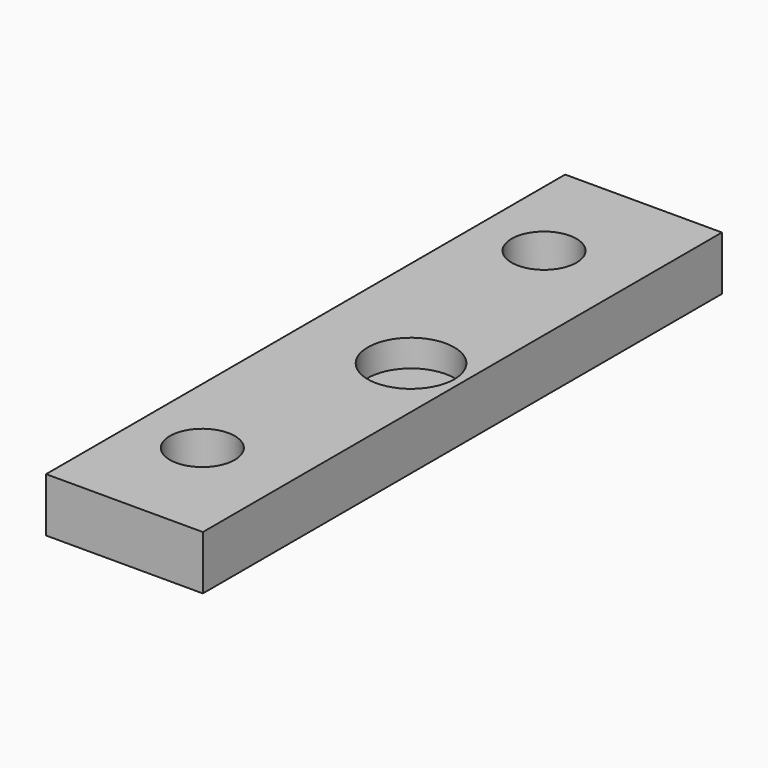
from build123d import *

# Parameters (mm, degrees)
BOX_W           = 29
BOX_H           = 120
BOX_DEPTH       = 10
SKETCH_R        = 6
POCKET_DEPTH    = 10.001
SKETCH001_R     = 8
POCKET001_DEPTH = 5


with BuildPart() as part:
    # Box → Box (new body)
    with BuildSketch(Plane.XY):
        with Locations((14.5, 60)):
            Rectangle(BOX_W, BOX_H)
    extrude(amount=BOX_DEPTH)

    # Sketch → Pocket (cut, through all)
    with BuildSketch(Plane.XY.offset(10)):
        with Locations((12.5, 99.5)):
            Circle(SKETCH_R)
        with Locations((12.5, 20.5)):
            Circle(SKETCH_R)
    extrude(amount=-POCKET_DEPTH, mode=Mode.SUBTRACT)

    # Sketch001 → Pocket001 (cut)
    with BuildSketch(Plane.XY.offset(10)):
        with Locations((19.5, 60)):
            Circle(SKETCH001_R)
    extrude(amount=-POCKET001_DEPTH, mode=Mode.SUBTRACT)


solid = part.part
